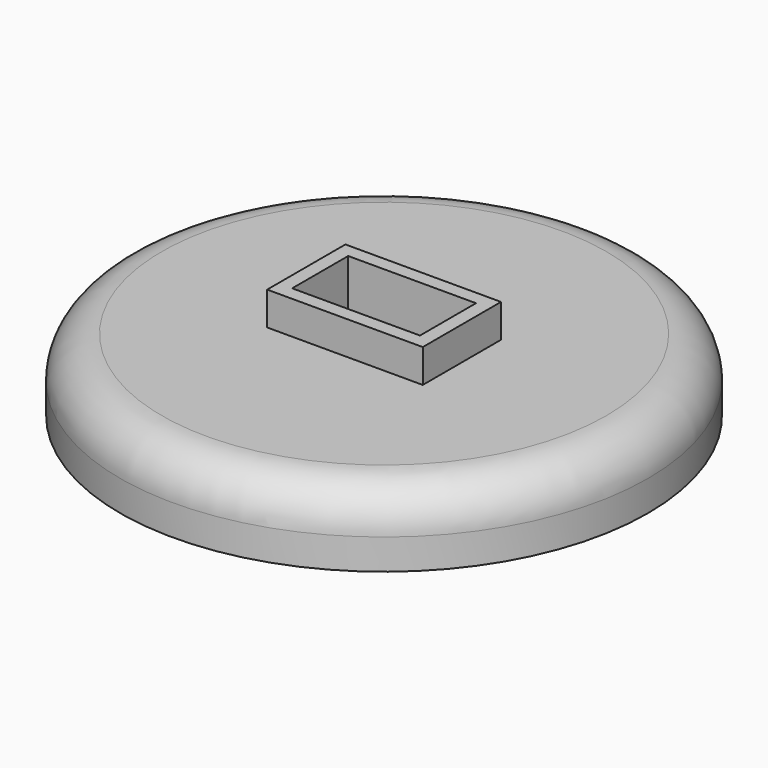
from build123d import *

# Parameters (mm, degrees)
F0_R     = 45
F1_DEPTH = 8
F2_R     = 5
F3_W     = 23
F3_H     = 12.6
F4_DEPTH = 16.5
F5_T     = 2.5


with BuildPart() as f1:
    # F0 (on Top) → F1 (new body)
    with BuildSketch(Plane.XY):
        Circle(F0_R)
    extrude(amount=F1_DEPTH)

    # F2
    f2_edges = [f1.edges().sort_by_distance(p)[0] for p in [
        (-45, 0, 8),
    ]]
    fillet(f2_edges, radius=F2_R)

    # F3 (on Top) → F4 (join)
    with BuildSketch(Plane.XY):
        Rectangle(F3_W, F3_H)
    extrude(amount=F4_DEPTH)

    # F5
    f5_openings = [f1.faces().sort_by_distance(p)[0] for p in [
        (0, 0, 16.5),
    ]]
    offset(amount=F5_T, openings=f5_openings, kind=Kind.INTERSECTION)


solid = f1.part
